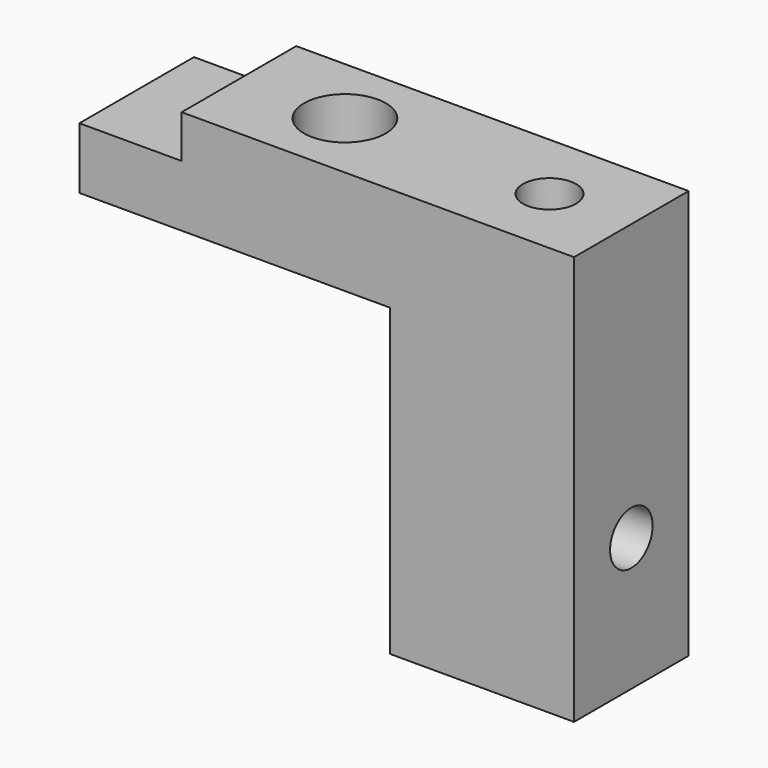
from build123d import *

# Parameters (mm, degrees)
PAD025_DEPTH             = 3.5
PAD025_DEPTH_BACK        = 3.5
SKETCH047_R              = 2
SKETCH047_R_2            = 1.3
POCKET_DEPTH             = 8
SKETCH049_R              = 1.3
POCKET001_DEPTH          = 8
CLONE010_PLACEMENT_ANGLE = 180


with BuildPart() as part:
    # Sketch → Pad025 (new body, two sides)
    with BuildSketch(Plane.XZ) as pad025_sk:
        Polygon((-58.82, -4.5), (-58.82, -6.6), (-53.82, -6.6), (-53.82, -9.6), (-69, -9.6), (-69, -24.5), (-78, -24.5), (-78, -4.5), align=None)
    extrude(amount=PAD025_DEPTH)
    extrude(pad025_sk.sketch, amount=-PAD025_DEPTH_BACK)

    # Sketch047 → Pocket (cut)
    with BuildSketch(Plane(origin=(0, 0, -9.6), x_dir=(1, 0, 0), z_dir=(0, 0, -1))):
        with Locations((-64, 0)):
            Circle(SKETCH047_R)
        with Locations((-74, 0)):
            Circle(SKETCH047_R_2)
    extrude(amount=-POCKET_DEPTH, mode=Mode.SUBTRACT)

    # Sketch049 → Pocket001 (cut)
    with BuildSketch(Plane(origin=(-78, 0, 0), x_dir=(0, 0, -1), z_dir=(-1, 0, 0))):
        with Locations((18, 0)):
            Circle(SKETCH049_R)
    extrude(amount=-POCKET001_DEPTH, mode=Mode.SUBTRACT)


with BuildPart() as part_1:
    # Clone010 placement: moved
    add(part.part.moved(Location((0, -27, 0))).rotate(Axis((0, -27, 0), (0, 0, 1)), CLONE010_PLACEMENT_ANGLE))


solid = part_1.part
